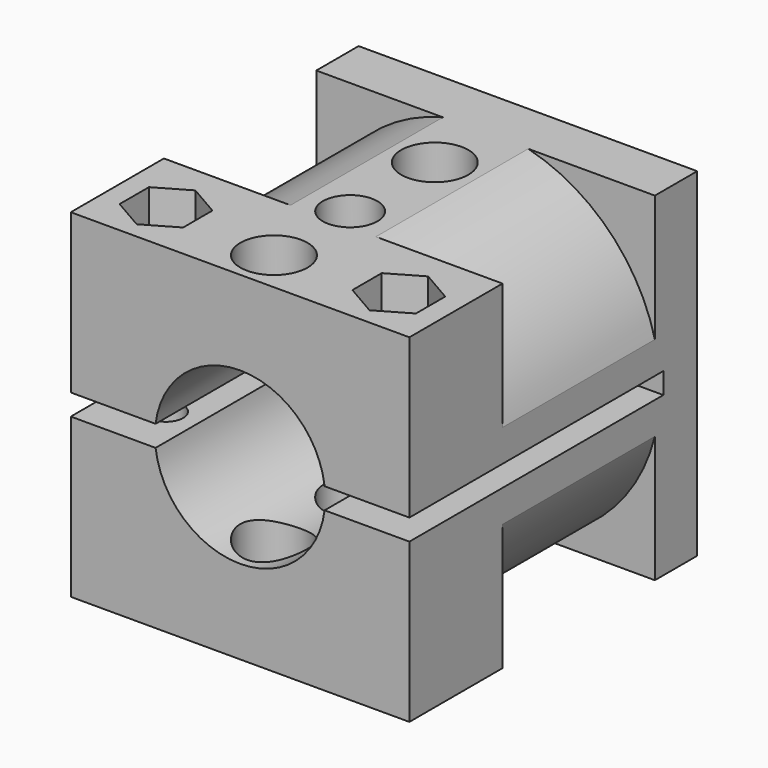
from build123d import *

# Parameters (mm, degrees)
F0_W          = 32
F0_H          = 32
F1_DEPTH      = 17
F2_R          = 8.05
F3_DEPTH      = 13
F3_DEPTH_BACK = 17
F4_W          = 32
F4_H          = 2
F5_DEPTH      = 16.001
F5_DEPTH_BACK = 16.001
F6_R          = 3.175
F6_R_2        = 2.5796875
F7_DEPTH      = 16.001
F7_DEPTH_BACK = 16.001
F8_R          = 1.625
F9_DEPTH      = 32.0010001
F10_R         = 3.55
F12_DEPTH     = 5.5
F13_DEPTH     = 10
F15_DEPTH     = 4.001
F16_W         = 9.5
F16_H         = 18


with BuildPart() as f1:
    # F0 (on Front) → F1 (new body, symmetric)
    with BuildSketch(Plane.XZ):
        Rectangle(F0_W, F0_H)
    extrude(amount=F1_DEPTH, both=True)

    # F2 (on Front) → F3 (cut, two sides)
    with BuildSketch(Plane.XZ) as f3_sk:
        Circle(F2_R)
    extrude(amount=-F3_DEPTH, mode=Mode.SUBTRACT)
    extrude(f3_sk.sketch, amount=F3_DEPTH_BACK, mode=Mode.SUBTRACT)

    # F4 (on Right) → F5 (cut, two sides)
    with BuildSketch(Plane.YZ) as f5_sk:
        with Locations((-3, 0)):
            Rectangle(F4_W, F4_H)
    extrude(amount=-F5_DEPTH, mode=Mode.SUBTRACT)
    extrude(f5_sk.sketch, amount=F5_DEPTH_BACK, mode=Mode.SUBTRACT)

    # F6 (on Top) → F7 (cut, two sides)
    with BuildSketch(Plane.XY) as f7_sk:
        with Locations((0, 6)):
            Circle(F6_R)
        with Locations((0, -4)):
            Circle(F6_R_2)
        with Locations((0, -13)):
            Circle(F6_R)
    extrude(amount=-F7_DEPTH, mode=Mode.SUBTRACT)
    extrude(f7_sk.sketch, amount=F7_DEPTH_BACK, mode=Mode.SUBTRACT)

    # F8 (on face) → F9 (cut, through all)
    with BuildSketch(Plane.XY.offset(16)):
        with Locations((-11, -12)):
            Circle(F8_R)
        with Locations((11, -12)):
            Circle(F8_R)
    extrude(amount=-F9_DEPTH, mode=Mode.SUBTRACT)

    # F10 (on face) → F12 (cut)
    with BuildSketch(Plane(origin=(0, 0, -16), x_dir=(1, 0, 0), z_dir=(0, 0, -1))):
        with Locations((11, 12)):
            Circle(F10_R)
        with Locations((-11, 12)):
            Circle(F10_R)
    extrude(amount=-F12_DEPTH, mode=Mode.SUBTRACT)

    # F11 (on face) → F13 (cut)
    with BuildSketch(Plane.XY.offset(16)):
        Polygon((-8, -13.7320508076), (-8, -10.2679491924), (-11, -8.5358983849), (-14, -10.2679491924), (-14, -13.7320508076), (-11, -15.4641016151), align=None)
        Polygon((8, -10.2679491924), (8, -13.7320508076), (11, -15.4641016151), (14, -13.7320508076), (14, -10.2679491924), (11, -8.5358983849), align=None)
    extrude(amount=-F13_DEPTH, mode=Mode.SUBTRACT)

    # F14 (on face) → F15 (cut, through all)
    with BuildSketch(Plane.XZ.offset(-13)):
        Polygon((0, -7.0710678119), (7.0710678119, 0), (0, 7.0710678119), (-7.0710678119, 0), align=None)
    extrude(amount=-F15_DEPTH, mode=Mode.SUBTRACT)

    # F16 (on Top) → F17 (revolve, cut)
    with BuildSketch(Plane.XY):
        with Locations((21.25, 3)):
            Rectangle(F16_W, F16_H)
    revolve(axis=Axis((0, -3.4330706112, 0), (0, -1, 0)), mode=Mode.SUBTRACT)


solid = f1.part
